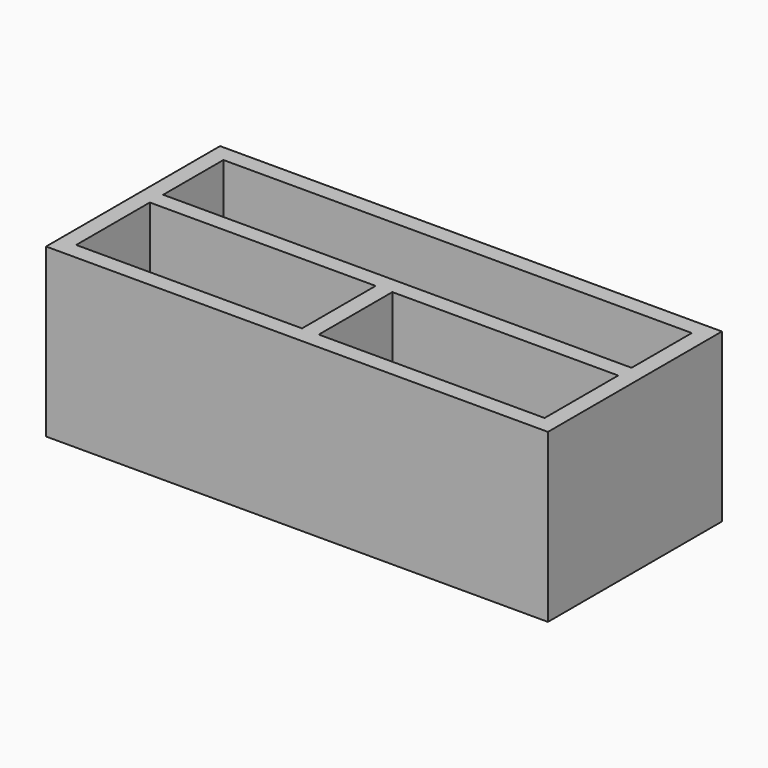
from build123d import *

# Parameters (mm, degrees)
F0_W     = 150
F0_H     = 65
F0_W_2   = 67.5
F0_H_2   = 27.5
F0_W_3   = 140
F0_H_3   = 22.5
F1_DEPTH = 50
F2_DEPTH = 20
F3_DEPTH = 10


with BuildPart() as f1:
    # F0 (on Top) → F1 (new body)
    with BuildSketch(Plane.XY):
        with Locations((0, -2.5)):
            Rectangle(F0_W, F0_H)
        with Locations((-36.25, -16.25)):
            Rectangle(F0_W_2, F0_H_2, mode=Mode.SUBTRACT)
        with Locations((36.25, -16.25)):
            Rectangle(F0_W_2, F0_H_2, mode=Mode.SUBTRACT)
        with Locations((0, 13.75)):
            Rectangle(F0_W_3, F0_H_3, mode=Mode.SUBTRACT)
    extrude(amount=F1_DEPTH)

    # F0 (on Top) → F2 (join)
    with BuildSketch(Plane.XY):
        with Locations((0, 13.75)):
            Rectangle(F0_W_3, F0_H_3)
    extrude(amount=F2_DEPTH)

    # F0 (on Top) → F3 (join)
    with BuildSketch(Plane.XY):
        with Locations((-36.25, -16.25)):
            Rectangle(F0_W_2, F0_H_2)
        with Locations((36.25, -16.25)):
            Rectangle(F0_W_2, F0_H_2)
    extrude(amount=F3_DEPTH)


solid = f1.part
